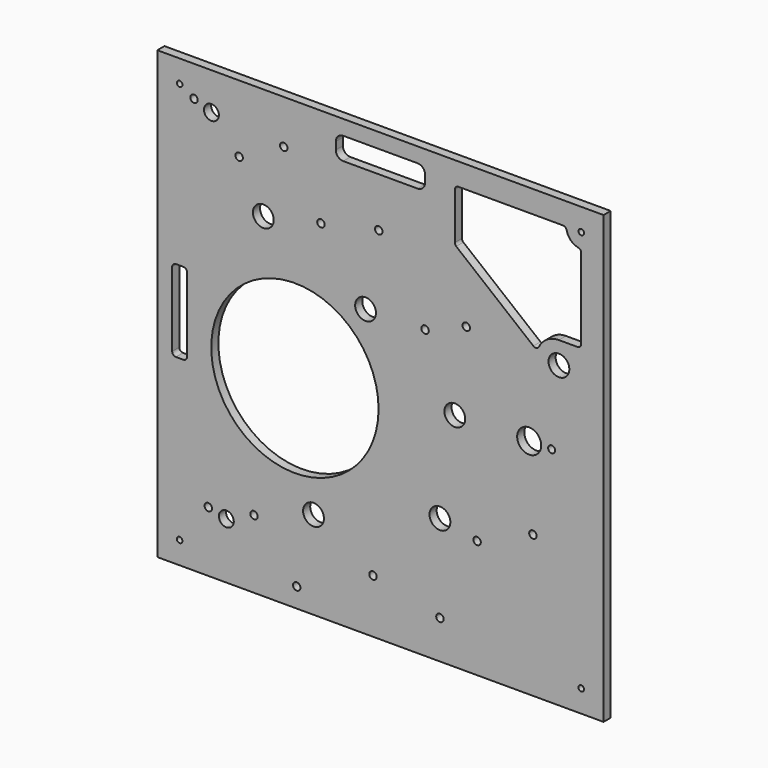
from build123d import *

# Parameters (mm, degrees)
F0_W     = 600
F0_H     = 600
F0_R     = 3.75
F0_R_2   = 5
F0_R_3   = 10
F0_R_4   = 14
F0_R_5   = 112.5
F0_R_6   = 16.15
F1_DEPTH = 12


with BuildPart() as f1:
    # F0 (on Front) → F1 (new body)
    with BuildSketch(Plane.XZ):
        with Locations((300, 300)):
            Rectangle(F0_W, F0_H)
        with Locations((30, 30)):
            Circle(F0_R, mode=Mode.SUBTRACT)
        with Locations((68.561592, 81.442299)):
            Circle(F0_R_2, mode=Mode.SUBTRACT)
        with Locations((92.826282, 75.423591)):
            Circle(F0_R_3, mode=Mode.SUBTRACT)
        with Locations((130, 91.960472)):
            Circle(F0_R_2, mode=Mode.SUBTRACT)
        with Locations((187.477557, 26.214177)):
            Circle(F0_R_2, mode=Mode.SUBTRACT)
        with Locations((290, 72.566743)):
            Circle(F0_R_2, mode=Mode.SUBTRACT)
        with Locations((210, 118.512822)):
            Circle(F0_R_4, mode=Mode.SUBTRACT)
        with Locations((185, 272)):
            Circle(F0_R_5, mode=Mode.SUBTRACT)
        with Locations((380, 51.624569)):
            Circle(F0_R_2, mode=Mode.SUBTRACT)
        with Locations((570, 30)):
            Circle(F0_R, mode=Mode.SUBTRACT)
        with Locations((380, 169.421404)):
            Circle(F0_R_4, mode=Mode.SUBTRACT)
        with Locations((430, 158.899558)):
            Circle(F0_R_2, mode=Mode.SUBTRACT)
        with Locations((400, 298.065548)):
            Circle(F0_R_4, mode=Mode.SUBTRACT)
        with Locations((505, 190.860924)):
            Circle(F0_R_2, mode=Mode.SUBTRACT)
        with BuildLine():
            ThreePointArc((20, 350), (21.464466, 353.535534), (25, 355))
            Line((25, 355), (35, 355))
            ThreePointArc((35, 355), (38.535534, 353.535534), (40, 350))
            Line((40, 350), (40, 250))
            ThreePointArc((40, 250), (38.535534, 246.464466), (35, 245))
            Line((35, 245), (25, 245))
            ThreePointArc((25, 245), (21.464466, 246.464466), (20, 250))
            Line((20, 250), (20, 350))
        make_face(mode=Mode.SUBTRACT)
        with Locations((142.540677, 449.83948)):
            Circle(F0_R_4, mode=Mode.SUBTRACT)
        with Locations((280, 384.547075)):
            Circle(F0_R_4, mode=Mode.SUBTRACT)
        with Locations((110, 509.711407)):
            Circle(F0_R_2, mode=Mode.SUBTRACT)
        with Locations((49.300337, 558.610979)):
            Circle(F0_R_2, mode=Mode.SUBTRACT)
        with Locations((72.770553, 550)):
            Circle(F0_R_3, mode=Mode.SUBTRACT)
        with Locations((30, 570)):
            Circle(F0_R, mode=Mode.SUBTRACT)
        with Locations((220, 466.622193)):
            Circle(F0_R_2, mode=Mode.SUBTRACT)
        with Locations((297.756058, 483.681746)):
            Circle(F0_R_2, mode=Mode.SUBTRACT)
        with Locations((170, 540.938969)):
            Circle(F0_R_2, mode=Mode.SUBTRACT)
        with Locations((360, 386.358701)):
            Circle(F0_R_2, mode=Mode.SUBTRACT)
        with Locations((415.40774, 407.79972)):
            Circle(F0_R_2, mode=Mode.SUBTRACT)
        with Locations((500, 300)):
            Circle(F0_R_6, mode=Mode.SUBTRACT)
        with BuildLine():
            ThreePointArc((534.878324, 300), (530.2, 295.321676), (525.521676, 300))
            ThreePointArc((525.521676, 300), (530.2, 304.678324), (534.878324, 300))
        make_face(mode=Mode.SUBTRACT)
        with Locations((540, 402.469508)):
            Circle(F0_R_4, mode=Mode.SUBTRACT)
        with BuildLine():
            Line((250, 580), (350, 580))
            ThreePointArc((350, 580), (357.071068, 577.071068), (360, 570))
            Line((360, 570), (360, 560))
            ThreePointArc((360, 560), (357.071068, 552.928932), (350, 550))
            Line((350, 550), (250, 550))
            ThreePointArc((250, 550), (242.928932, 552.928932), (240, 560))
            Line((240, 560), (240, 570))
            ThreePointArc((240, 570), (242.928932, 577.071068), (250, 580))
        make_face(mode=Mode.SUBTRACT)
        with BuildLine():
            ThreePointArc((545.505103, 570), (548.66738, 568.872983), (550.404082, 566))
            ThreePointArc((550.404082, 566), (555.857864, 555.857864), (566, 550.404082))
            ThreePointArc((566, 550.404082), (568.872983, 548.66738), (570, 545.505103))
            Line((570, 545.505103), (570, 437.469508))
            ThreePointArc((570, 437.469508), (568.535534, 433.933974), (565, 432.469508))
            Line((565, 432.469508), (540, 432.469508))
            ThreePointArc((540, 432.469508), (524.272579, 428.016489), (513.214126, 415.97939))
            ThreePointArc((513.214126, 415.97939), (509.797466, 413.342027), (505.600127, 414.347807))
            Line((505.600127, 414.347807), (401.850314, 498.499211))
            ThreePointArc((401.850314, 498.499211), (400.48622, 500.231678), (400, 502.382442))
            Line((400, 502.382442), (400, 565))
            ThreePointArc((400, 565), (401.464466, 568.535534), (405, 570))
            Line((405, 570), (545.505103, 570))
        make_face(mode=Mode.SUBTRACT)
        with Locations((570, 570)):
            Circle(F0_R, mode=Mode.SUBTRACT)
    extrude(amount=-F1_DEPTH)


solid = f1.part
